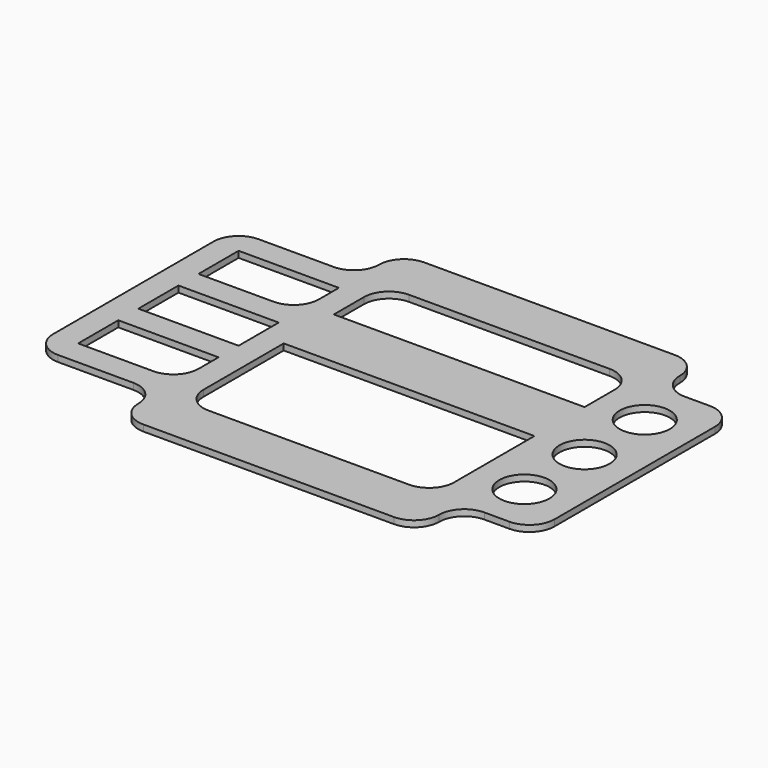
from build123d import *

# Parameters (mm, degrees)
F0_W     = 50.8
F0_H     = 25.4
F0_R     = 12.7
F1_DEPTH = 3.175


with BuildPart() as f1:
    # F0 (on Top) → F1 (new body)
    with BuildSketch(Plane.XY):
        with BuildLine():
            Line((-50.8, 25.4), (-12.7, 25.4))
            ThreePointArc((-12.7, 25.4), (-3.719744, 21.680256), (0, 12.7))
            ThreePointArc((0, 12.7), (3.719744, 3.719744), (12.7, 0))
            Line((12.7, 0), (139.7, 0))
            ThreePointArc((139.7, 0), (148.680256, 3.719744), (152.4, 12.7))
            ThreePointArc((152.4, 12.7), (156.119744, 21.680256), (165.1, 25.4))
            Line((165.1, 25.4), (177.8, 25.4))
            ThreePointArc((177.8, 25.4), (186.780256, 29.119744), (190.5, 38.1))
            Line((190.5, 38.1), (190.5, 139.7))
            ThreePointArc((190.5, 139.7), (186.780256, 148.680256), (177.8, 152.4))
            Line((177.8, 152.4), (165.1, 152.4))
            ThreePointArc((165.1, 152.4), (156.119744, 156.119744), (152.4, 165.1))
            ThreePointArc((152.4, 165.1), (148.680256, 174.080256), (139.7, 177.8))
            Line((139.7, 177.8), (12.7, 177.8))
            ThreePointArc((12.7, 177.8), (3.719744, 174.080256), (0, 165.1))
            ThreePointArc((0, 165.1), (-3.719744, 156.119744), (-12.7, 152.4))
            Line((-12.7, 152.4), (-50.8, 152.4))
            ThreePointArc((-50.8, 152.4), (-59.780256, 148.680256), (-63.5, 139.7))
            Line((-63.5, 139.7), (-63.5, 38.1))
            ThreePointArc((-63.5, 38.1), (-59.780256, 29.119744), (-50.8, 25.4))
        make_face()
        with BuildLine():
            Line((-12.7, 38.1), (-50.8, 38.1))
            Line((-50.8, 38.1), (-50.8, 63.5))
            Line((-50.8, 63.5), (0, 63.5))
            Line((0, 63.5), (0, 50.8))
            ThreePointArc((0, 50.8), (-3.719744, 41.819744), (-12.7, 38.1))
        make_face(mode=Mode.SUBTRACT)
        with Locations((-25.4, 88.9)):
            Rectangle(F0_W, F0_H, mode=Mode.SUBTRACT)
        with BuildLine():
            Line((12.7, 38.1), (12.7, 88.9))
            Line((12.7, 88.9), (139.7, 88.9))
            Line((139.7, 88.9), (139.7, 38.1))
            ThreePointArc((139.7, 38.1), (135.980256, 29.119744), (127, 25.4))
            Line((127, 25.4), (25.4, 25.4))
            ThreePointArc((25.4, 25.4), (16.419744, 29.119744), (12.7, 38.1))
        make_face(mode=Mode.SUBTRACT)
        with Locations((165.1, 50.8)):
            Circle(F0_R, mode=Mode.SUBTRACT)
        with Locations((165.1, 88.9)):
            Circle(F0_R, mode=Mode.SUBTRACT)
        with BuildLine():
            Line((-50.8, 114.3), (-50.8, 139.7))
            Line((-50.8, 139.7), (0, 139.7))
            Line((0, 139.7), (0, 127))
            ThreePointArc((0, 127), (-3.719744, 118.019744), (-12.7, 114.3))
            Line((-12.7, 114.3), (-50.8, 114.3))
        make_face(mode=Mode.SUBTRACT)
        with Locations((165.1, 127)):
            Circle(F0_R, mode=Mode.SUBTRACT)
        with BuildLine():
            ThreePointArc((12.7, 139.7), (16.419744, 148.680256), (25.4, 152.4))
            Line((25.4, 152.4), (127, 152.4))
            ThreePointArc((127, 152.4), (135.980256, 148.680256), (139.7, 139.7))
            Line((139.7, 139.7), (139.7, 120.65))
            Line((139.7, 120.65), (12.7, 120.65))
            Line((12.7, 120.65), (12.7, 139.7))
        make_face(mode=Mode.SUBTRACT)
    extrude(amount=F1_DEPTH)


solid = f1.part
